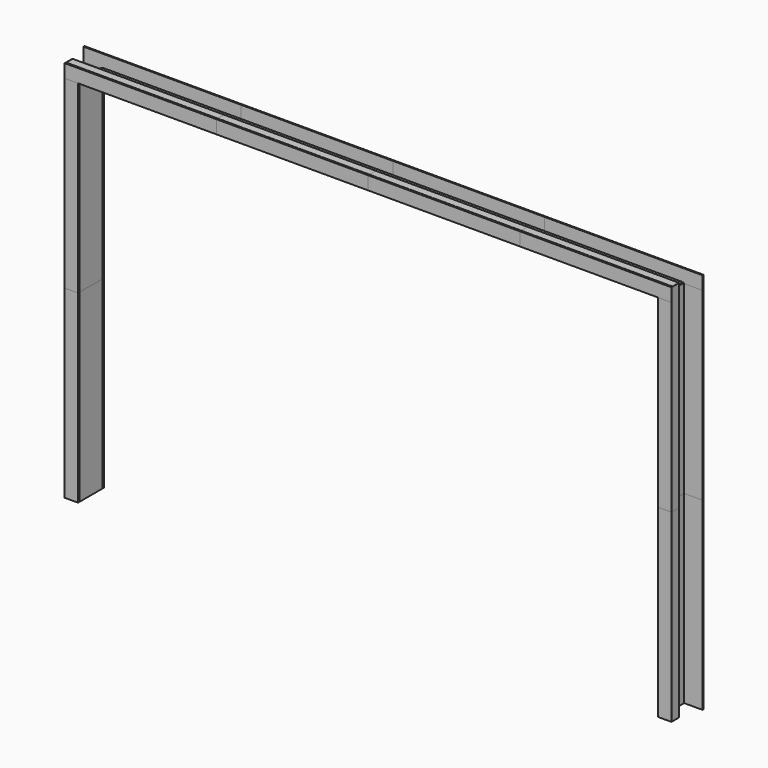
from build123d import *

# Parameters (mm, degrees)
F0_W      = 19.05
F0_H      = 127
F0_W_2    = 209.55
F0_H_2    = 19.05
F0_H_3    = 457.2
F0_W_3    = 304.8
F1_DEPTH  = 2908.3
F2_W      = 209.55
F2_H      = 19.05
F2_W_2    = 304.8
F3_DEPTH  = 2908.3
F4_W      = 19.05
F4_H      = 127
F5_DEPTH  = 3117.85
F6_W      = 19.05
F6_H      = 457.2
F7_DEPTH  = 2921
F9_W      = 127
F9_H      = 19.05
F10_DEPTH = 2370.1375
F11_W     = 2389.1875
F11_H     = 209.55
F12_DEPTH = 19.05
F13_W     = 457.2
F13_H     = 19.05
F14_DEPTH = 2179.6375
F15_W     = 2484.4375
F15_H     = 209.55
F16_DEPTH = 19.05
F17_W     = 127
F17_H     = 19.05
F17_W_2   = 457.2
F17_W_3   = 19.05
F17_H_2   = 209.55
F18_DEPTH = 2389.1875


with BuildPart() as f1:
    # F0 (on Top) → F1 (new body)
    with BuildSketch(Plane.XY):
        with Locations((-104.809374, -73.728366)):
            Rectangle(F0_W, F0_H)
        with Locations((-9.559374, -153.103366)):
            Rectangle(F0_W_2, F0_H_2)
        with Locations((85.690626, 91.371634)):
            Rectangle(F0_W, F0_H_3)
        with Locations((-57.184374, 335.846634)):
            Rectangle(F0_W_3, F0_H_2)
    extrude(amount=F1_DEPTH)


with BuildPart() as f3:
    # F2 (on face) → F3 (new body)
    with BuildSketch(Plane.XY.offset(2908.3)):
        with Locations((-9.559374, -153.103366)):
            Rectangle(F2_W, F2_H)
        with Locations((-57.184374, 335.846634)):
            Rectangle(F2_W_2, F2_H)
    extrude(amount=F3_DEPTH)


with BuildPart() as f5:
    # F4 (on face) → F5 (new body)
    with BuildSketch(Plane.XY.offset(2908.3)):
        with Locations((-104.809374, -73.728366)):
            Rectangle(F4_W, F4_H)
    extrude(amount=F5_DEPTH)


with BuildPart() as f7:
    # F6 (on face) → F7 (new body)
    with BuildSketch(Plane.XY.offset(2908.3)):
        with Locations((85.690626, 91.371634)):
            Rectangle(F6_W, F6_H)
    extrude(amount=F7_DEPTH)


with BuildPart() as f10:
    # F9 (on face) → F10 (new body, through all)
    with BuildSketch(Plane.YZ.offset(-95.284374)):
        with Locations((-73.728366, 6016.625)):
            Rectangle(F9_W, F9_H)
    extrude(amount=F10_DEPTH)


with BuildPart() as f12:
    # F11 (on face) → F12 (new body)
    with BuildSketch(Plane.XZ.offset(162.628366)):
        with Locations((1080.259376, 5921.375)):
            Rectangle(F11_W, F11_H)
    extrude(amount=-F12_DEPTH)


with BuildPart() as f14:
    # F13 (on face) → F14 (new body, through all)
    with BuildSketch(Plane.YZ.offset(95.215626)):
        with Locations((91.371634, 5826.125)):
            Rectangle(F13_W, F13_H)
    extrude(amount=F14_DEPTH)


with BuildPart() as f16:
    # F15 (on face) → F16 (new body)
    with BuildSketch(Plane(origin=(0, 345.371634, 0), x_dir=(-1, 0, 0), z_dir=(0, 1, 0))):
        with Locations((-1032.634376, 5921.375)):
            Rectangle(F15_W, F15_H)
    extrude(amount=-F16_DEPTH)


with BuildPart() as f18:
    # F17 (on face) → F18 (new body)
    with BuildSketch(Plane.YZ.offset(2274.853126)):
        with Locations((-73.728366, 6016.625)):
            Rectangle(F17_W, F17_H)
        with Locations((91.371634, 5826.125)):
            Rectangle(F17_W_2, F17_H)
        with Locations((335.846634, 5921.375)):
            Rectangle(F17_W_3, F17_H_2)
        with Locations((-153.103366, 5921.375)):
            Rectangle(F17_W_3, F17_H_2)
    extrude(amount=F18_DEPTH)


with BuildPart() as f19_1:
    # F19: instance of F10
    add(f10.part.mirror(Plane(origin=(4664.040626, -153.103366, 5921.375), x_dir=(0, 1, 0), z_dir=(1, 0, 0))))


with BuildPart() as f19_2:
    # F19: instance of F14
    add(f14.part.mirror(Plane(origin=(4664.040626, -153.103366, 5921.375), x_dir=(0, 1, 0), z_dir=(1, 0, 0))))


with BuildPart() as f19_3:
    # F19: instance of F3
    add(f3.part.mirror(Plane(origin=(4664.040626, -153.103366, 5921.375), x_dir=(0, 1, 0), z_dir=(1, 0, 0))))


with BuildPart() as f19_4:
    # F19: instance of F16
    add(f16.part.mirror(Plane(origin=(4664.040626, -153.103366, 5921.375), x_dir=(0, 1, 0), z_dir=(1, 0, 0))))


with BuildPart() as f19_5:
    # F19: instance of F12
    add(f12.part.mirror(Plane(origin=(4664.040626, -153.103366, 5921.375), x_dir=(0, 1, 0), z_dir=(1, 0, 0))))


with BuildPart() as f19_6:
    # F19: instance of F5
    add(f5.part.mirror(Plane(origin=(4664.040626, -153.103366, 5921.375), x_dir=(0, 1, 0), z_dir=(1, 0, 0))))


with BuildPart() as f19_7:
    # F19: instance of F1
    add(f1.part.mirror(Plane(origin=(4664.040626, -153.103366, 5921.375), x_dir=(0, 1, 0), z_dir=(1, 0, 0))))


with BuildPart() as f19_8:
    # F19: instance of F7
    add(f7.part.mirror(Plane(origin=(4664.040626, -153.103366, 5921.375), x_dir=(0, 1, 0), z_dir=(1, 0, 0))))


with BuildPart() as f19_9:
    # F19: instance of F18
    add(f18.part.mirror(Plane(origin=(4664.040626, -153.103366, 5921.375), x_dir=(0, 1, 0), z_dir=(1, 0, 0))))


solid = Compound([f1.part, f3.part, f5.part, f7.part, f10.part, f12.part, f14.part, f16.part, f18.part, f19_1.part, f19_2.part, f19_3.part, f19_4.part, f19_5.part, f19_6.part, f19_7.part, f19_8.part, f19_9.part])
